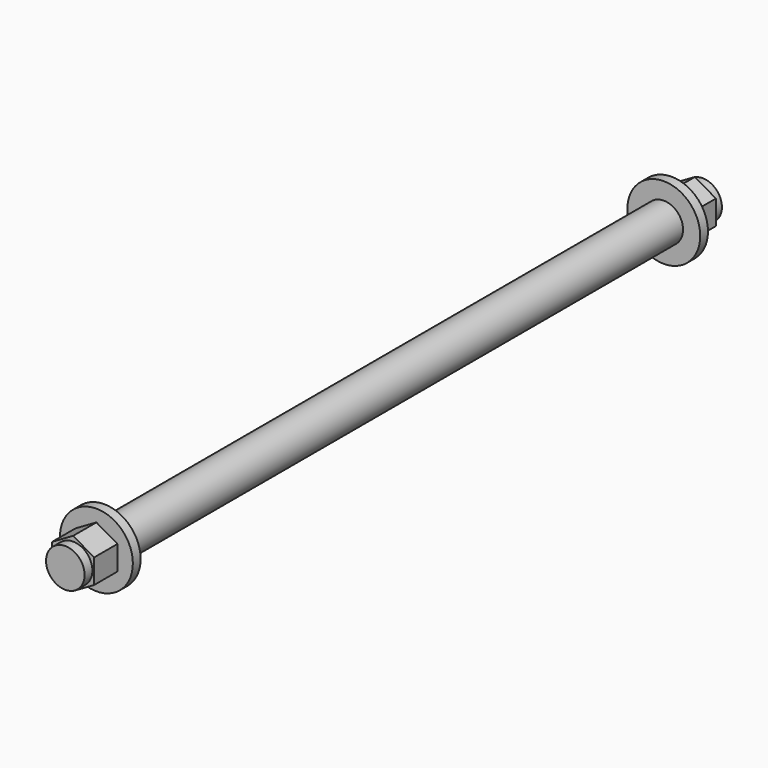
from build123d import *

# Parameters (mm, degrees)
SKETCH013_R     = 3.96875
PAD009_DEPTH    = 164
SKETCH014_R     = 7.5
PAD010_DEPTH    = 10
SKETCH015_R     = 7.5
POCKET003_DEPTH = 8
SKETCH016_R     = 7.5
SKETCH016_R_2   = 3.96875
POCKET004_DEPTH = 2
SKETCH017_R     = 7.5
PAD011_DEPTH    = 10
SKETCH018_R     = 7.5
POCKET005_DEPTH = 8
SKETCH019_R     = 7.5
SKETCH019_R_2   = 3.96875
POCKET006_DEPTH = 2


with BuildPart() as part:
    # Sketch013 → Pad009 (new body)
    with BuildSketch(Plane(origin=(500, 82, 56), x_dir=(1, 0, 0), z_dir=(0, -1, 0))):
        Circle(SKETCH013_R)
    extrude(amount=PAD009_DEPTH)

    # Sketch014 → Pad010 (new body)
    with BuildSketch(Plane(origin=(500, 82, 56), x_dir=(1, 0, 0), z_dir=(0, 1, 0))):
        Circle(SKETCH014_R)
    extrude(amount=-PAD010_DEPTH)

    # Sketch015 → Pocket003 (cut)
    with BuildSketch(Plane(origin=(500, 82, 56), x_dir=(1, 0, 0), z_dir=(0, 1, 0))):
        Circle(SKETCH015_R)
        Polygon((0, 5), (-4.330127, 2.5), (-4.330127, -2.5), (0, -5), (4.330127, -2.5), (4.330127, 2.5), align=None, mode=Mode.SUBTRACT)
    extrude(amount=-POCKET003_DEPTH, mode=Mode.SUBTRACT)

    # Sketch016 → Pocket004 (cut)
    with BuildSketch(Plane(origin=(500, 82, 56), x_dir=(1, 0, 0), z_dir=(0, 1, 0))):
        Circle(SKETCH016_R)
        Circle(SKETCH016_R_2, mode=Mode.SUBTRACT)
    extrude(amount=-POCKET004_DEPTH, mode=Mode.SUBTRACT)

    # Sketch017 → Pad011 (new body)
    with BuildSketch(Plane(origin=(500, -82, 56), x_dir=(1, 0, 0), z_dir=(0, -1, 0))):
        Circle(SKETCH017_R)
    extrude(amount=-PAD011_DEPTH)

    # Sketch018 → Pocket005 (cut)
    with BuildSketch(Plane(origin=(500, -82, 56), x_dir=(1, 0, 0), z_dir=(0, -1, 0))):
        Circle(SKETCH018_R)
        Polygon((0, 5), (-4.330127, 2.5), (-4.330127, -2.5), (0, -5), (4.330127, -2.5), (4.330127, 2.5), align=None, mode=Mode.SUBTRACT)
    extrude(amount=-POCKET005_DEPTH, mode=Mode.SUBTRACT)

    # Sketch019 → Pocket006 (cut)
    with BuildSketch(Plane(origin=(500, -82, 56), x_dir=(1, 0, 0), z_dir=(0, -1, 0))):
        Circle(SKETCH019_R)
        Circle(SKETCH019_R_2, mode=Mode.SUBTRACT)
    extrude(amount=-POCKET006_DEPTH, mode=Mode.SUBTRACT)


with BuildPart() as part_1:
    # Clone011 placement: moved
    add(part.part.moved(Location((48.5, 0, -28))))


solid = part_1.part
